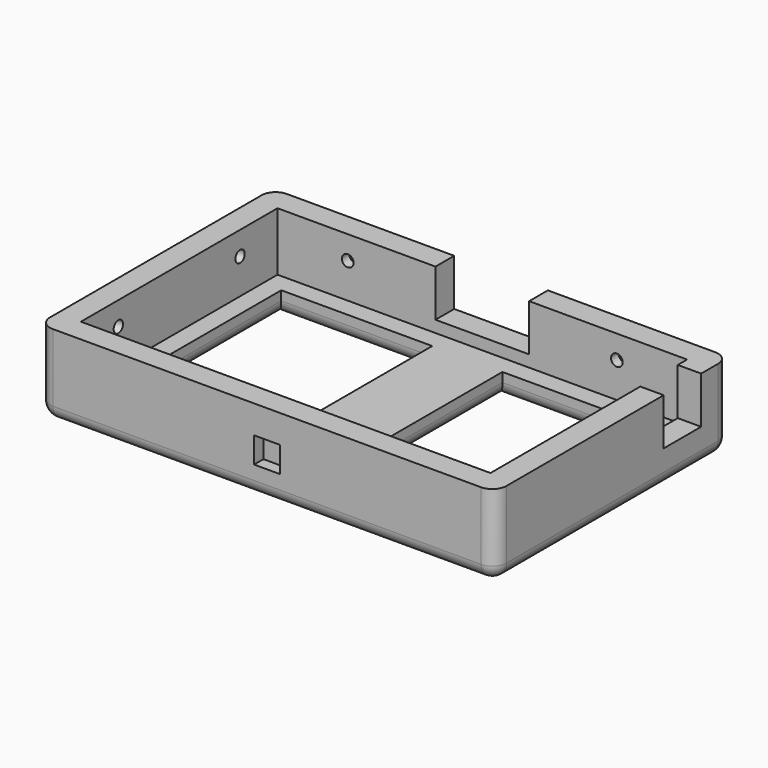
from build123d import *

# Parameters (mm, degrees)
F0_W            = 195
F0_H            = 125
F0_W_2          = 175
F0_H_2          = 105
F1_DEPTH        = 35
F2_DEPTH        = 10
F3_W            = 40
F3_H            = 10
F3_W_2          = 10
F3_H_2          = 20
F4_DEPTH        = 20
F5_W            = 159
F5_H            = 89
F6_DEPTH        = 25
F8_W            = 30
F8_H            = 110
F9_DEPTH        = 10
F10_W           = 11
F10_H           = 11
F11_DEPTH       = 5
F12_DEPTH       = 5
F15_D           = 5
F15_DEPTH       = 12
F15_CBORE_D     = 10
F15_CBORE_DEPTH = 6
F15_TIP         = 1.5021515476
F16_D           = 5
F16_DEPTH       = 12
F16_CBORE_D     = 10
F16_CBORE_DEPTH = 6
F16_TIP         = 1.5021515476
F17_R           = 6
F18_R           = 6
F7_W            = 11
F7_H            = 11
F19_DEPTH       = 5


with BuildPart() as f1:
    # F0 (on Top) → F1 (new body)
    with BuildSketch(Plane.XY):
        Rectangle(F0_W, F0_H)
        Rectangle(F0_W_2, F0_H_2, mode=Mode.SUBTRACT)
    extrude(amount=F1_DEPTH)

    # F0 (on Top) → F2 (join)
    with BuildSketch(Plane.XY):
        Rectangle(F0_W_2, F0_H_2)
    extrude(amount=F2_DEPTH)

    # F3 (on face) → F4 (cut)
    with BuildSketch(Plane.XY.offset(35)):
        with Locations((0, 57.5)):
            Rectangle(F3_W, F3_H)
        with Locations((92.5, 37.5)):
            Rectangle(F3_W_2, F3_H_2)
    extrude(amount=-F4_DEPTH, mode=Mode.SUBTRACT)

    # F5 (on face) → F6 (cut)
    with BuildSketch(Plane.XY.offset(10)):
        Rectangle(F5_W, F5_H)
    extrude(amount=-F6_DEPTH, mode=Mode.SUBTRACT)

    # F8 (on Top) → F9 (join)
    with BuildSketch(Plane.XY):
        Rectangle(F8_W, F8_H)
    extrude(amount=F9_DEPTH)

    # F10 (on Top) → F11 (cut)
    with BuildSketch(Plane.XY):
        with Locations((0, 32.5)):
            Rectangle(F10_W, F10_H)
    extrude(amount=-F11_DEPTH, mode=Mode.SUBTRACT)

    # F10 (on Top) → F12 (cut)
    with BuildSketch(Plane.XY):
        with Locations((0, 32.5)):
            Rectangle(F10_W, F10_H)
    extrude(amount=F12_DEPTH, mode=Mode.SUBTRACT)

    # F15
    with Locations(Plane(origin=(-97.5, 0, 0), x_dir=(0, -1, 0), z_dir=(-1, 0, 0))):
        with Locations((-32.5, 25), (32.5, 25)):
            CounterBoreHole(F15_D / 2, F15_CBORE_D / 2, F15_CBORE_DEPTH, depth=F15_DEPTH)
            with Locations((0, 0, -(F15_DEPTH + F15_TIP / 2))):  # 118° drill point
                Cone(0, F15_D / 2, F15_TIP, mode=Mode.SUBTRACT)

    # F16
    with Locations(Plane(origin=(0, 62.5, 0), x_dir=(-1, 0, 0), z_dir=(0, 1, 0))):
        with Locations((-57.5, 25), (57.5, 25)):
            CounterBoreHole(F16_D / 2, F16_CBORE_D / 2, F16_CBORE_DEPTH, depth=F16_DEPTH)
            with Locations((0, 0, -(F16_DEPTH + F16_TIP / 2))):  # 118° drill point
                Cone(0, F16_D / 2, F16_TIP, mode=Mode.SUBTRACT)

    # F17
    f17_edges = [f1.edges().sort_by_distance(p)[0] for p in [
        (79.5, 0, 0),
        (47.25, 44.5, 0),
        (15, 0, 0),
        (47.25, -44.5, 0),
        (-15, 0, 0),
        (-47.25, 44.5, 0),
        (-79.5, 0, 0),
        (-47.25, -44.5, 0),
    ]]
    fillet(f17_edges, radius=F17_R)

    # F18
    f18_edges = [f1.edges().sort_by_distance(p)[0] for p in [
        (0, 62.5, 0),
        (97.5, 0, 0),
        (0, -62.5, 0),
        (-97.5, 0, 0),
        (-97.5, 62.5, 17.5),
        (97.5, 62.5, 17.5),
        (97.5, -62.5, 17.5),
        (-97.5, -62.5, 17.5),
    ]]
    fillet(f18_edges, radius=F18_R)

    # F7 (on face) → F19 (cut)
    with BuildSketch(Plane.XZ.offset(62.5)):
        with Locations((0, 17.5)):
            Rectangle(F7_W, F7_H)
    extrude(amount=-F19_DEPTH, mode=Mode.SUBTRACT)


solid = f1.part
